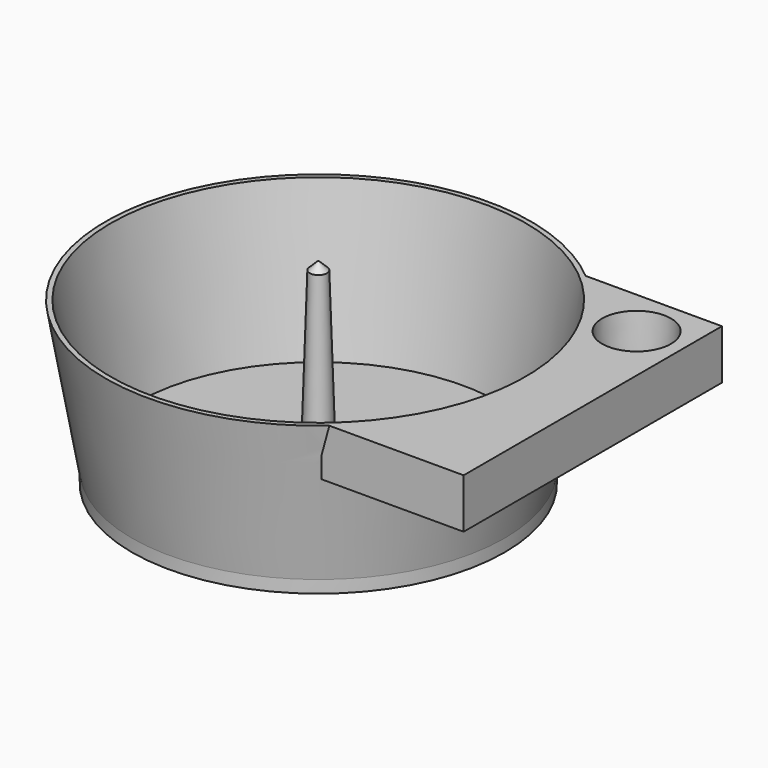
from build123d import *

# Parameters (mm, degrees)
F0_R      = 47.625
F1_DEPTH  = 38.1
F1_TAPER  = -10
F2_R      = 46.355
F3_DEPTH  = 38.1
F3_TAPER  = -10
F4_DEPTH  = 3.175
F7_SIZE   = 2.032
F9_DEPTH  = 12.7
F10_R     = 8.128
F11_DEPTH = 25.4
F11_TAPER = -3


with BuildPart() as f1:
    # F0 (on Top) → F1 (new body)
    with BuildSketch(Plane.XY):
        Circle(F0_R)
    extrude(amount=F1_DEPTH, taper=F1_TAPER)

    # F2 (on Top) → F3 (cut)
    with BuildSketch(Plane.XY):
        Circle(F2_R)
    extrude(amount=F3_DEPTH, taper=F3_TAPER, mode=Mode.SUBTRACT)

    # F0 (on Top) → F4 (join)
    with BuildSketch(Plane.XY):
        Circle(F0_R)
    extrude(amount=-F4_DEPTH)

    # F5 (on Front) → F6 (revolve)
    with BuildSketch(Plane.XZ):
        Polygon((0, 46.8748211861), (0, 0), (3.5949361045, 0), (2.1285163239, 46.8748211861), align=None)
    revolve(axis=Axis((0, 0, 0), (0, 0, 1)))

    # F7
    f7_edges = [f1.edges().sort_by_distance(p)[0] for p in [
        (-2.128516, 0, 46.874821),
    ]]
    chamfer(f7_edges, length=F7_SIZE)

    # F8 (on face) → F9 (join)
    with BuildSketch(Plane.XY.offset(38.1)):
        with BuildLine():
            Line((69.9530094796, 41.4682495986), (33.1230094796, 41.4682495986))
            ThreePointArc((33.1230094796, 41.4682495986), (52.9801221963, 0.348952149), (33.6663710675, -41.0283431411))
            Line((33.6663710675, -41.0283431411), (69.9530094796, -41.0283431411))
            Line((69.9530094796, -41.0283431411), (69.9530094796, 41.4682495986))
        make_face()
    extrude(amount=-F9_DEPTH)

    # F10 (on face) → F11 (cut)
    with BuildSketch(Plane(origin=(0, 0, 25.4), x_dir=(1, 0, 0), z_dir=(0, 0, -1))):
        with Locations((57.9903379162, -29.164113198)):
            Circle(F10_R)
    extrude(amount=-F11_DEPTH, taper=F11_TAPER, mode=Mode.SUBTRACT)


solid = f1.part
